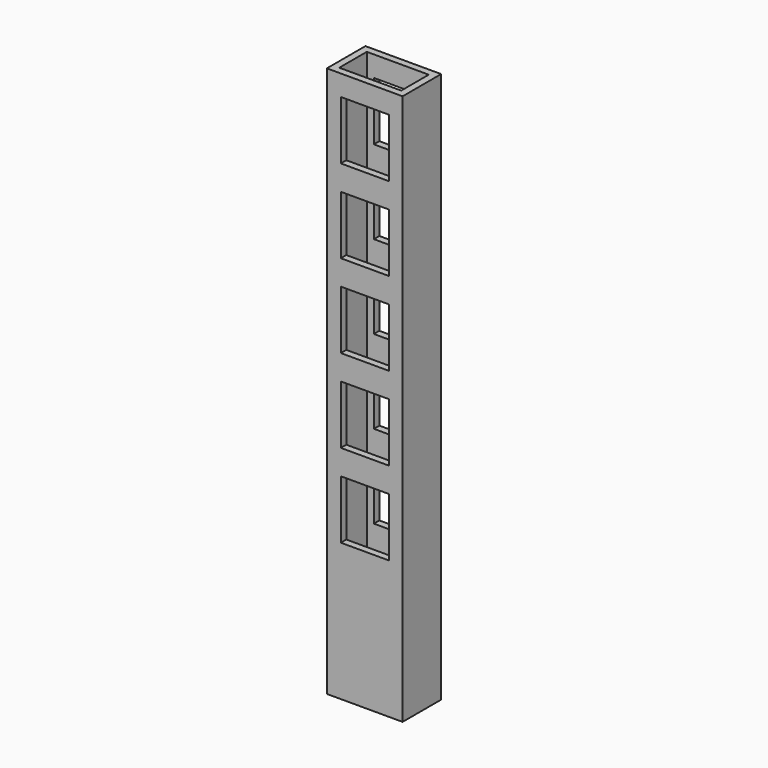
from build123d import *

# Parameters (mm, degrees)
DWIRE_W             = 550
DWIRE_H             = 350
PAD001_DEPTH        = 4000
SKETCH_W            = 450
SKETCH_H            = 250
POCKET_DEPTH        = 4000
SKETCH001_W         = 350
SKETCH001_H         = 425
POCKET001_DEPTH     = 3500
LINEARPATTERN_COUNT = 5
LINEARPATTERN_PITCH = 606.25


with BuildPart() as part:
    # DWire → Pad001 (new body)
    with BuildSketch(Plane.XY):
        Rectangle(DWIRE_W, DWIRE_H)
    extrude(amount=PAD001_DEPTH)

    # Sketch → Pocket (cut)
    with BuildSketch(Plane.XY):
        Rectangle(SKETCH_W, SKETCH_H)
    extrude(amount=POCKET_DEPTH, mode=Mode.SUBTRACT)

    # Sketch001 (on Face6 of Pocket) → Pocket001 (cut)
    with BuildSketch(Plane.XZ.offset(175)):
        with Locations((1.211661, 1212.5)):
            Rectangle(SKETCH001_W, SKETCH001_H)
    pocket001 = extrude(amount=-POCKET001_DEPTH, mode=Mode.SUBTRACT)

    # LinearPattern: Pocket001 ×5
    with Locations(*[(0, 0, i * LINEARPATTERN_PITCH) for i in range(1, LINEARPATTERN_COUNT)]):
        add(pocket001, mode=Mode.SUBTRACT)


solid = part.part
